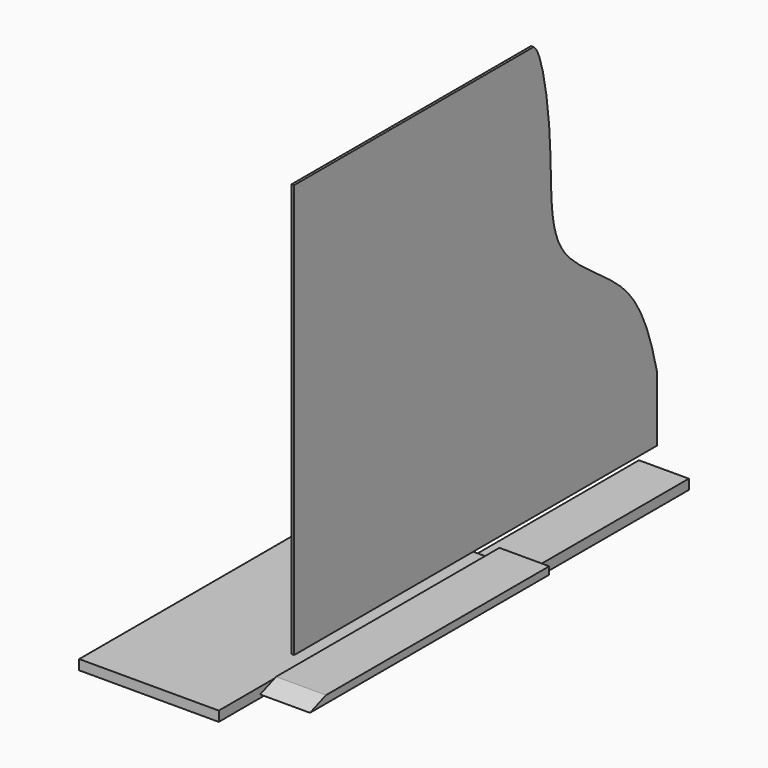
from build123d import *

# Parameters (mm, degrees)
F0_W      = 63.5
F0_H      = 577.85
F1_DEPTH  = 12.7
F2_W      = 577.85
F2_H      = 527.05
F3_DEPTH  = 3.175
F5_DEPTH  = 25.4
F7_DEPTH  = 63.501
F8_DEPTH  = 61.8612912945
F9_DEPTH  = 61.8612912945
F10_W     = 177.8
F10_H     = 12.7
F11_DEPTH = 425.45
F14_W     = 63.5
F14_H     = 9.525
F15_DEPTH = 381
F17_DEPTH = 258.4515901963


with BuildPart() as f1:
    # F0 (on Top) → F1 (new body)
    with BuildSketch(Plane.XY):
        with Locations((-26.9352912945, 28.1112923563)):
            Rectangle(F0_W, F0_H)
    extrude(amount=F1_DEPTH)

    # F6 (on face) → F7 (cut, through all)
    with BuildSketch(Plane.YZ.offset(4.8147087055)):
        Polygon((-260.8137076437, 12.7), (-260.8137076437, 0), (-235.4137076437, 12.7), align=None)
    extrude(amount=-F7_DEPTH, mode=Mode.SUBTRACT)

    # F4 (on face) → F8 (cut, through all)
    with BuildSketch(Plane.YZ.offset(3.175)):
        with BuildLine():
            Line((268.5834025025, 151.3408869505), (268.5834025025, 213.3056139469))
            Line((268.5834025025, 213.3056139469), (268.5834025025, 595.9775148613))
            Line((268.5834025025, 595.9775148613), (71.7334025025, 595.9775148613))
            add(Edge.make_bspline(
                [(268.5834025025, 151.3408869505), (260.0579377157, 186.5340690938), (237.4179441691, 274.0807141118), (90.586356949, 338.2776875307), (106.1015892584, 468.8571672689), (84.7687089088, 587.7804257721), (71.7334025025, 595.9775148613)],
                knots=[0, 0, 0, 0, 0.2429134721, 0.5027830509, 0.7569279685, 1, 1, 1, 1], degree=3))
        make_face()
    extrude(amount=-F8_DEPTH, mode=Mode.SUBTRACT)

    # F4 (on face) → F9 (cut, through all)
    with BuildSketch(Plane.YZ.offset(3.175)):
        with BuildLine():
            Line((268.5834025025, 151.3408869505), (268.5834025025, 213.3056139469))
            Line((268.5834025025, 213.3056139469), (268.5834025025, 595.9775148613))
            Line((268.5834025025, 595.9775148613), (71.7334025025, 595.9775148613))
            add(Edge.make_bspline(
                [(268.5834025025, 151.3408869505), (260.0579377157, 186.5340690938), (237.4179441691, 274.0807141118), (90.586356949, 338.2776875307), (106.1015892584, 468.8571672689), (84.7687089088, 587.7804257721), (71.7334025025, 595.9775148613)],
                knots=[0, 0, 0, 0, 0.2429134721, 0.5027830509, 0.7569279685, 1, 1, 1, 1], degree=3))
        make_face()
    extrude(amount=-F9_DEPTH, mode=Mode.SUBTRACT)


with BuildPart() as f3:
    # F2 (on Right) → F3 (new body)
    with BuildSketch(Plane.YZ):
        with Locations((-20.3415974975, 332.4525148613)):
            Rectangle(F2_W, F2_H)
    extrude(amount=F3_DEPTH)

    # F4 (on face) → F5 (cut)
    with BuildSketch(Plane.YZ.offset(3.175)):
        with BuildLine():
            Line((268.5834025025, 151.3408869505), (268.5834025025, 213.3056139469))
            Line((268.5834025025, 213.3056139469), (268.5834025025, 595.9775148613))
            Line((268.5834025025, 595.9775148613), (71.7334025025, 595.9775148613))
            add(Edge.make_bspline(
                [(268.5834025025, 151.3408869505), (260.0579377157, 186.5340690938), (237.4179441691, 274.0807141118), (90.586356949, 338.2776875307), (106.1015892584, 468.8571672689), (84.7687089088, 587.7804257721), (71.7334025025, 595.9775148613)],
                knots=[0, 0, 0, 0, 0.2429134721, 0.5027830509, 0.7569279685, 1, 1, 1, 1], degree=3))
        make_face()
    extrude(amount=-F5_DEPTH, mode=Mode.SUBTRACT)


with BuildPart() as f11:
    # F10 (on Front) → F11 (new body)
    with BuildSketch(Plane.XZ):
        with Locations((-88.9, 46.4760677925)):
            Rectangle(F10_W, F10_H)
    extrude(amount=F11_DEPTH)


with BuildPart() as f12_1:
    # F12: copy of F1
    add(f1.part.moved(Location((127, 0, 0))))


with BuildPart() as f15:
    # F14 (on Front) → F15 (new body)
    with BuildSketch(Plane.XZ):
        with Locations((48.9005901963, 63.2363813341)):
            Rectangle(F14_W, F14_H)
    extrude(amount=F15_DEPTH)

    # F16 (on face) → F17 (cut, through all)
    with BuildSketch(Plane.YZ.offset(80.6505901963)):
        Polygon((-381, 67.9988813341), (-381, 58.4738813341), (-355.6, 67.9988813341), align=None)
    extrude(amount=-F17_DEPTH, mode=Mode.SUBTRACT)


solid = Compound([f1.part, f3.part, f11.part, f15.part])
